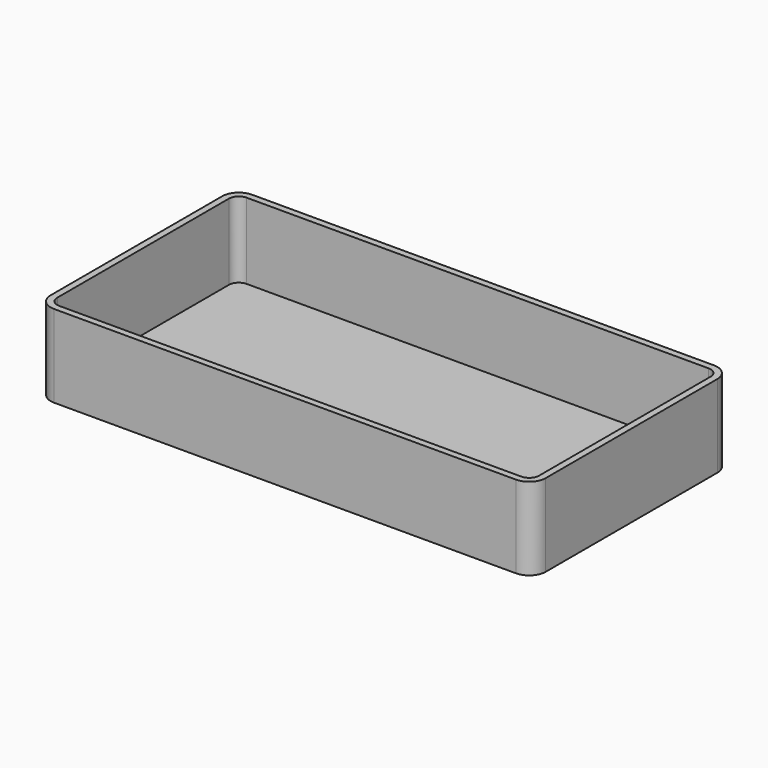
from build123d import *

# Parameters (mm, degrees)
F0_W     = 152.4
F0_H     = 76.2
F1_DEPTH = 25.4
F2_R     = 5.08
F3_T     = -2.032


with BuildPart() as f1:
    # F0 (on Top) → F1 (new body)
    with BuildSketch(Plane.XY):
        with Locations((-82.550001, 38.1)):
            Rectangle(F0_W, F0_H)
    extrude(amount=F1_DEPTH)

    # F2
    f2_edges = [f1.edges().sort_by_distance(p)[0] for p in [
        (-158.750001, 0, 12.7),
        (-6.350001, 0, 12.7),
        (-158.750001, 76.2, 12.7),
        (-6.350001, 76.2, 12.7),
    ]]
    fillet(f2_edges, radius=F2_R)

    # F3
    f3_openings = [f1.faces().sort_by_distance(p)[0] for p in [
        (-82.550001, 38.1, 25.4),
    ]]
    offset(amount=F3_T, openings=f3_openings)


solid = f1.part
